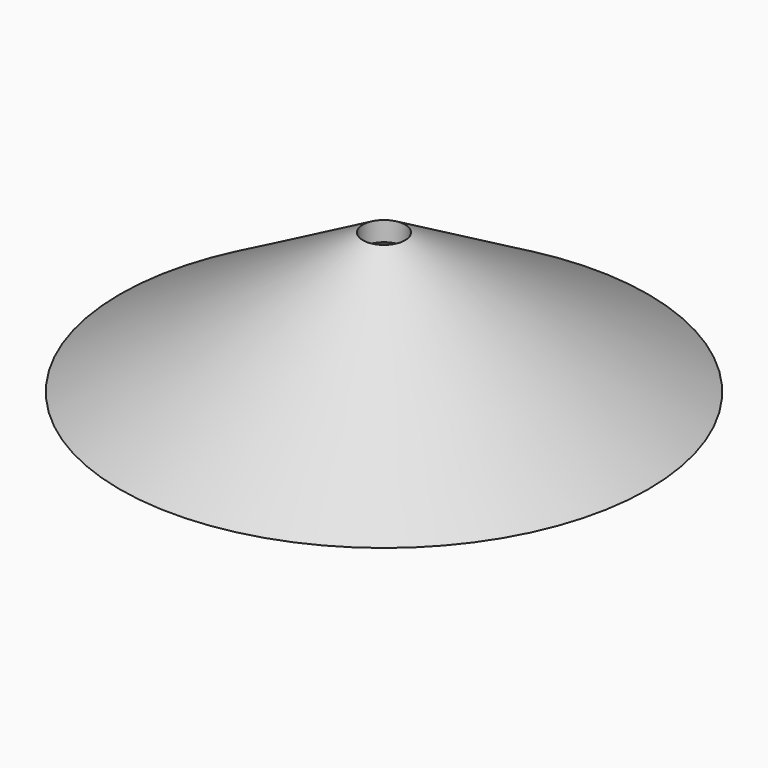
from build123d import *

# Parameters (mm, degrees)
F0_R     = 12.5
F1_DEPTH = 7.5
F1_TAPER = 60
F3_T     = -0.8
F2_R     = 1
F4_DEPTH = 25


with BuildPart() as f1:
    # F0 (on Top) → F1 (new body)
    with BuildSketch(Plane.XY):
        Circle(F0_R)
    extrude(amount=F1_DEPTH, taper=F1_TAPER)

    # F3
    f3_openings = [f1.faces().sort_by_distance(p)[0] for p in [
        (0, 0, 0),
    ]]
    offset(amount=F3_T, openings=f3_openings)

    # F2 (on Top) → F4 (cut)
    with BuildSketch(Plane.XY):
        Circle(F2_R)
    extrude(amount=F4_DEPTH, mode=Mode.SUBTRACT)


solid = f1.part
